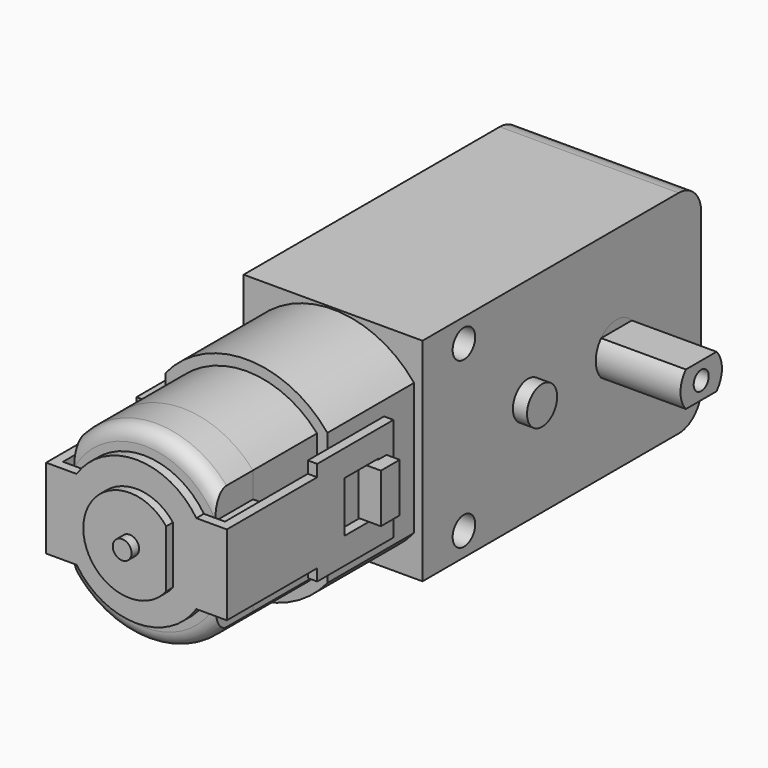
from build123d import *

# Parameters (mm, degrees)
PAD_DEPTH               = 10
BODY_PITCH_ANGLE        = -90
BODY_PLACEMENT_ANGLE    = 90
PAD001_DEPTH            = 5
PAD003_DEPTH            = 2
FILLET_R                = 1.5
BODY001_PITCH_ANGLE     = -90
BODY001_PLACEMENT_ANGLE = 90
SKETCH002_R             = 1
PAD002_DEPTH            = 18
PAD002_DEPTH_BACK       = 20
BODY002_PLACEMENT_ANGLE = 90
PAD004_DEPTH            = 9.5
SKETCH006_W             = 5
SKETCH006_H             = 5
SKETCH006_R             = 1.3
PAD005_DEPTH            = 1.5
FILLET001_R             = 1
SKETCH007_R             = 2.75
POCKET001_DEPTH         = 9.501
POCKET001_DEPTH_BACK    = -9.501
SKETCH008_R             = 1.5
POCKET002_DEPTH         = 9.501
POCKET002_DEPTH_BACK    = -9.501
SKETCH009_R             = 2
PAD006_DEPTH            = 11
PAD007_DEPTH            = 11.5
SKETCH011_W             = 2.5
SKETCH011_H             = 6
POCKET003_DEPTH         = 9
PAD008_DEPTH            = 2.6
SKETCH013_R             = 2.75
PAD009_DEPTH            = 18.5
SKETCH014_R             = 1
SKETCH014_W             = 5
SKETCH014_H             = 1
POCKET004_DEPTH         = 9
PAD010_DEPTH            = 7.65
SKETCH016_W             = 22.206736
SKETCH016_H             = 17.952575
POCKET005_DEPTH         = 12
SKETCH017_W             = 4.5
SKETCH017_H             = 5.4
SKETCH017_W_2           = 10.120926
SKETCH017_H_2           = 2.15
POCKET006_DEPTH         = 19.201


with BuildPart() as metal:
    # Sketch → Pad (new body, symmetric)
    with BuildSketch(Plane.XY):
        with BuildLine():
            ThreePointArc((-6.614378, 7.5), (-10, 0), (-6.614378, -7.5))
            Line((6.614378, -7.5), (-6.614378, -7.5))
            ThreePointArc((6.614378, -7.5), (10, 0), (6.614378, 7.5))
            Line((-6.614378, 7.5), (6.614378, 7.5))
        make_face()
    extrude(amount=PAD_DEPTH, both=True)


with BuildPart() as metal_1:
    # Body pitch: moved
    add(metal.part.rotate(Axis((0, 0, 0), (0, 1, 0)), BODY_PITCH_ANGLE))


with BuildPart() as metal_2:
    # Body placement: moved
    add(metal_1.part.rotate(Axis((0, 0, 0), (0, 0, 1)), BODY_PLACEMENT_ANGLE))


with BuildPart() as plastic:
    # Sketch001 → Pad001 (new body)
    with BuildSketch(Plane.XY.offset(10)):
        with BuildLine():
            ThreePointArc((-6.614378, 7.5), (-10, 0), (-6.614378, -7.5))
            Line((-6.614378, -7.5), (-3.9, -7.5))
            Line((-3.9, -7.5), (-3.9, -9.2))
            Line((-3.9, -9.2), (3.9, -9.2))
            Line((3.9, -9.2), (3.9, -7.5))
            Line((3.9, -7.5), (6.614378, -7.5))
            ThreePointArc((6.614378, -7.5), (10, 0), (6.614378, 7.5))
            Line((-6.614378, 7.5), (6.614378, 7.5))
        make_face()
    extrude(amount=PAD001_DEPTH)

    # Sketch003 (on Face10 of Pad001) → Pad003 (join)
    with BuildSketch(Plane.XY.offset(15)):
        with BuildLine():
            ThreePointArc((3.039737, -3.875), (0, 4.925), (-3.039737, -3.875))
            Line((-3.039737, -3.875), (3.039737, -3.875))
        make_face()
    extrude(amount=PAD003_DEPTH)

    # Fillet
    fillet_edges = [plastic.edges().sort_by_distance(p)[0] for p in [
        (10, 0, 15),
        (-10, 0, 15),
    ]]
    fillet(fillet_edges, radius=FILLET_R)


with BuildPart() as plastic_1:
    # Body001 pitch: moved
    add(plastic.part.rotate(Axis((0, 0, 0), (0, 1, 0)), BODY001_PITCH_ANGLE))


with BuildPart() as plastic_2:
    # Body001 placement: moved
    add(plastic_1.part.rotate(Axis((0, 0, 0), (0, 0, 1)), BODY001_PLACEMENT_ANGLE))


with BuildPart() as axis:
    # Sketch002 → Pad002 (new body, two sides)
    with BuildSketch(Plane.XY) as pad002_sk:
        Circle(SKETCH002_R)
    extrude(amount=PAD002_DEPTH)
    extrude(pad002_sk.sketch, amount=-PAD002_DEPTH_BACK)


with BuildPart() as axis_1:
    # Body002 placement: moved
    add(axis.part.rotate(Axis((0, 0, 0), (1, 0, 0)), BODY002_PLACEMENT_ANGLE))


with BuildPart() as yellow:
    # Sketch005 → Pad004 (new body, symmetric)
    with BuildSketch(Plane.YZ):
        with BuildLine():
            Line((10, -11.25), (10, 11.25))
            Line((10, 11.25), (44, 11.25))
            ThreePointArc((47, 8.25), (46.12132, 10.37132), (44, 11.25))
            Line((47, 8.25), (47, -8.25))
            ThreePointArc((44, -11.25), (46.12132, -10.37132), (47, -8.25))
            Line((44, -11.25), (10, -11.25))
        make_face()
    extrude(amount=PAD004_DEPTH, both=True)

    # Sketch006 → Pad005 (join, symmetric)
    with BuildSketch(Plane.YZ):
        with Locations((49.5, 0)):
            Rectangle(SKETCH006_W, SKETCH006_H)
        with Locations((49.5, 0)):
            Circle(SKETCH006_R, mode=Mode.SUBTRACT)
    extrude(amount=PAD005_DEPTH, both=True)

    # Fillet001
    fillet001_edges = [yellow.edges().sort_by_distance(p)[0] for p in [
        (0, 52, 2.5),
        (0, 52, -2.5),
        (0, 47, 2.5),
        (0, 47, -2.5),
    ]]
    fillet(fillet001_edges, radius=FILLET001_R)

    # Sketch007 → Pocket001 (cut, two sides)
    with BuildSketch(Plane.YZ) as pocket001_sk:
        with Locations((35.75, 0)):
            Circle(SKETCH007_R)
    extrude(amount=-POCKET001_DEPTH, mode=Mode.SUBTRACT)
    extrude(pocket001_sk.sketch, amount=-POCKET001_DEPTH_BACK, mode=Mode.SUBTRACT)

    # Sketch008 → Pocket002 (cut, two sides)
    with BuildSketch(Plane.YZ) as pocket002_sk:
        with Locations((15.5, 8.75)):
            Circle(SKETCH008_R)
        with Locations((15.5, -8.75)):
            Circle(SKETCH008_R)
    extrude(amount=-POCKET002_DEPTH, mode=Mode.SUBTRACT)
    extrude(pocket002_sk.sketch, amount=-POCKET002_DEPTH_BACK, mode=Mode.SUBTRACT)

    # Sketch009 → Pad006 (join)
    with BuildSketch(Plane.YZ):
        with Locations((24, 0)):
            Circle(SKETCH009_R)
    extrude(amount=PAD006_DEPTH)

    # Sketch010 (on Face18 of Pad006) → Pad007 (join)
    with BuildSketch(Plane(origin=(0, 10, 0), x_dir=(0, 0, -1), z_dir=(0, -1, 0))):
        with BuildLine():
            ThreePointArc((-7.017834, 8.6), (-11.1, 0), (-7.017834, -8.6))
            Line((-7.017834, -8.6), (7.017834, -8.6))
            ThreePointArc((7.017834, -8.6), (11.1, 0), (7.017834, 8.6))
            Line((7.017834, 8.6), (-7.017834, 8.6))
        make_face()
        with BuildLine():
            ThreePointArc((-6.614378, 7.5), (-10, 0), (-6.614378, -7.5))
            Line((-6.614378, -7.5), (6.614378, -7.5))
            ThreePointArc((6.614378, -7.5), (10, 0), (6.614378, 7.5))
            Line((-6.614378, 7.5), (6.614378, 7.5))
        make_face(mode=Mode.SUBTRACT)
    extrude(amount=PAD007_DEPTH)

    # Sketch011 → Pocket003 (cut)
    with BuildSketch(Plane.YZ):
        with Locations((5.25, 0)):
            Rectangle(SKETCH011_W, SKETCH011_H)
    pocket003 = extrude(amount=-POCKET003_DEPTH, mode=Mode.SUBTRACT)

    # Sketch012 → Pad008 (join, symmetric)
    with BuildSketch(Plane.XY):
        Polygon((-8.6, 2.6), (-11, 2.6), (-11, 5.1), (-9.6, 5.1), (-9.6, 4), (-8.6, 4), align=None)
    pad008 = extrude(amount=PAD008_DEPTH, both=True)

    # Mirrored: Pad008, Pocket003 across Sketch012 V_Axis
    add(pad008.mirror(Plane(origin=(0, 0, 0), x_dir=(0, 0, 1), z_dir=(1, 0, 0))))
    add(pocket003.mirror(Plane(origin=(0, 0, 0), x_dir=(0, 0, 1), z_dir=(1, 0, 0))), mode=Mode.SUBTRACT)


with BuildPart() as white:
    # Sketch013 → Pad009 (new body, symmetric)
    with BuildSketch(Plane.YZ):
        with Locations((35.75, 0)):
            Circle(SKETCH013_R)
    extrude(amount=PAD009_DEPTH, both=True)

    # Sketch014 (on Face3 of Pad009) → Pocket004 (cut)
    with BuildSketch(Plane.YZ.offset(18.5)):
        with Locations((35.75, 0)):
            Circle(SKETCH014_R)
        with Locations((35.75, 2.35)):
            Rectangle(SKETCH014_W, SKETCH014_H)
        with Locations((35.75, -2.35)):
            Rectangle(SKETCH014_W, SKETCH014_H)
    pocket004 = extrude(amount=-POCKET004_DEPTH, mode=Mode.SUBTRACT)

    # Mirrored001: Pocket004 across YZ
    add(pocket004.mirror(Plane.YZ), mode=Mode.SUBTRACT)


with BuildPart() as transparent:
    # Sketch015 → Pad010 (new body, symmetric)
    with BuildSketch(Plane.XY):
        Polygon((-9.6, -16.1), (9.6, -16.1), (9.6, 6.020926), (8.6, 6.020926), (8.6, -15.1), (-8.6, -15.1), (-8.6, 6.020926), (-9.6, 6.020926), align=None)
    extrude(amount=PAD010_DEPTH, both=True)

    # Sketch016 (on Face1 of Pad010) → Pocket005 (cut)
    with BuildSketch(Plane.XZ.offset(16.1)):
        with Locations((0.046514, 0.125165)):
            Rectangle(SKETCH016_W, SKETCH016_H)
        with BuildLine():
            ThreePointArc((-6.360818, -4.25), (0, -7.65), (6.360818, -4.25))
            Line((6.360818, -4.25), (9.6, -4.25))
            Line((9.6, -4.25), (9.6, 4.25))
            Line((9.6, 4.25), (6.360818, 4.25))
            ThreePointArc((6.360818, 4.25), (0, 7.65), (-6.360818, 4.25))
            Line((-6.360818, 4.25), (-9.6, 4.25))
            Line((-9.6, 4.25), (-9.6, -4.25))
            Line((-9.6, -4.25), (-6.360818, -4.25))
        make_face(mode=Mode.SUBTRACT)
        with BuildLine():
            ThreePointArc((3.875, 3.039737), (-4.925, 0), (3.875, -3.039737))
            Line((3.875, -3.039737), (3.875, 3.039737))
        make_face()
    extrude(amount=-POCKET005_DEPTH, mode=Mode.SUBTRACT)

    # Sketch017 (on Face19 of Pocket005) → Pocket006 (cut, through all)
    with BuildSketch(Plane.YZ.offset(9.6)):
        with Locations((1.75, 0)):
            Rectangle(SKETCH017_W, SKETCH017_H)
        with Locations((0.960463, -6.575)):
            Rectangle(SKETCH017_W_2, SKETCH017_H_2)
        with Locations((0.960463, 6.575)):
            Rectangle(SKETCH017_W_2, SKETCH017_H_2)
    extrude(amount=-POCKET006_DEPTH, mode=Mode.SUBTRACT)


solid = Compound([metal_2.part, plastic_2.part, axis_1.part, yellow.part, white.part, transparent.part])
